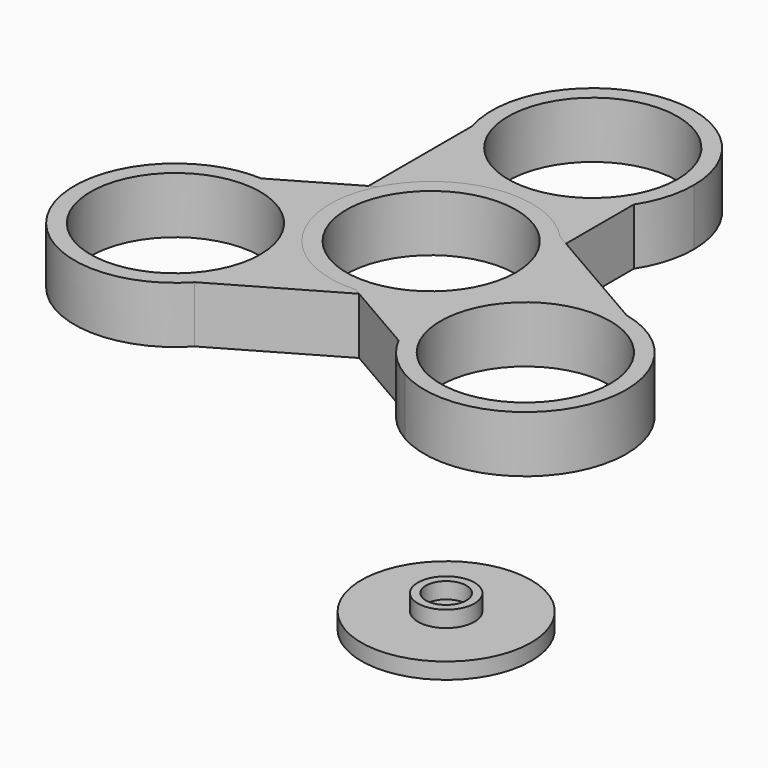
from build123d import *

# Parameters (mm, degrees)
F0_R     = 10.5
F1_DEPTH = 7
F2_COUNT = 3
F0_R_2   = 3.5
F3_DEPTH = 2
F0_R_3   = 2.5
F4_DEPTH = 4
F5_DEPTH = 2


with BuildPart() as f1:
    # F0 (on Top) → F1 (new body)
    with BuildSketch(Plane.XY):
        with BuildLine():
            Line((-11.940132, 21.300914), (-11.940132, 3.699086))
            ThreePointArc((-11.940132, 3.699086), (-7.416584, 10.062022), (0, 12.5))
            ThreePointArc((0, 12.5), (-7.416584, 14.937978), (-11.940132, 21.300914))
        make_face()
        with BuildLine():
            ThreePointArc((0, 12.5), (5.977912, 10.977912), (10.5, 6.78233))
            Line((10.5, 6.78233), (10.5, 18.21767))
            ThreePointArc((10.5, 18.21767), (5.977912, 14.022088), (0, 12.5))
        make_face()
        with BuildLine():
            ThreePointArc((-11.940132, 21.300914), (-7.416584, 14.937978), (0, 12.5))
            ThreePointArc((0, 12.5), (5.977912, 14.022088), (10.5, 18.21767))
            ThreePointArc((10.5, 18.21767), (11.989579, 21.464466), (12.5, 25))
            ThreePointArc((12.5, 25), (-1.870607, 37.359241), (-11.940132, 21.300914))
        make_face()
        with Locations((0, 25)):
            Circle(F0_R, mode=Mode.SUBTRACT)
        with BuildLine():
            ThreePointArc((-11.940132, 3.699086), (-1.870607, -12.359241), (12.5, 0))
            ThreePointArc((12.5, 0), (11.989579, 3.535534), (10.5, 6.78233))
            ThreePointArc((10.5, 6.78233), (5.977912, 10.977912), (0, 12.5))
            ThreePointArc((0, 12.5), (-7.416584, 10.062022), (-11.940132, 3.699086))
        make_face()
        Circle(F0_R, mode=Mode.SUBTRACT)
    extrude(amount=F1_DEPTH)


with BuildPart() as f2_1:
    # F2: instance of F1
    add(f1.part.rotate(Axis((0, 0, 7), (0, 0, 1)), 1 * 360 / F2_COUNT))


with BuildPart() as f2_2:
    # F2: instance of F1
    add(f1.part.rotate(Axis((0, 0, 7), (0, 0, 1)), 2 * 360 / F2_COUNT))


with BuildPart() as f3:
    # F0 (on Top) → F3 (new body)
    with BuildSketch(Plane.XY):
        with Locations((43.535605, -52.09801)):
            Circle(F0_R)
        with Locations((43.535605, -52.09801)):
            Circle(F0_R_2, mode=Mode.SUBTRACT)
    extrude(amount=F3_DEPTH)

    # F0 (on Top) → F4 (join)
    with BuildSketch(Plane.XY):
        with Locations((43.535605, -52.09801)):
            Circle(F0_R_2)
        with Locations((43.535605, -52.09801)):
            Circle(F0_R_3, mode=Mode.SUBTRACT)
    extrude(amount=F4_DEPTH)

    # F0 (on Top) → F5 (join)
    with BuildSketch(Plane.XY):
        with Locations((43.535605, -52.09801)):
            Circle(F0_R_3)
    extrude(amount=F5_DEPTH)


solid = Compound([f1.part, f2_1.part, f2_2.part, f3.part])
